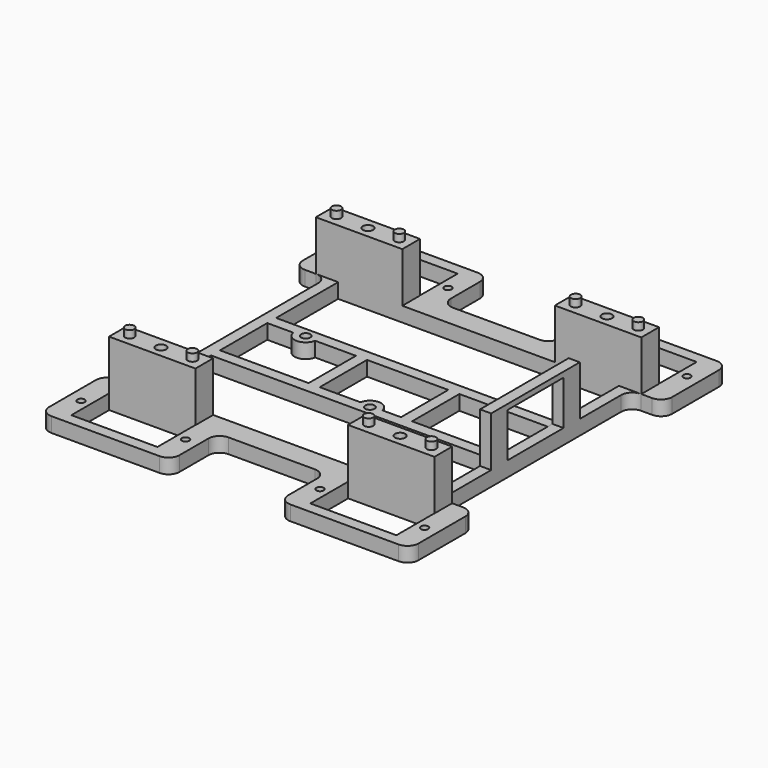
from build123d import *

# Parameters (mm, degrees)
SKETCH_R        = 1
SKETCH_W        = 23.3
SKETCH_H        = 12.8
SKETCH_W_2      = 76
SKETCH_H_2      = 21
SKETCH_W_3      = 24
SKETCH_H_3      = 16
PAD_DEPTH       = 4
SKETCH005_R     = 1.25
POCKET001_DEPTH = 5
SKETCH002_W     = 23.4
SKETCH002_H     = 6
SKETCH002_W_2   = 3
SKETCH002_H_2   = 30
PAD001_DEPTH    = 13.5
SKETCH008_R     = 1.4
POCKET_DEPTH    = 11
SKETCH007_R     = 1.25
PAD002_DEPTH    = 2
SKETCH004_W     = 19
SKETCH004_H     = 12
POCKET002_DEPTH = 5
SKETCH009_R     = 1.25
POCKET003_DEPTH = 11


with BuildPart() as part:
    # Sketch → Pad (new body)
    with BuildSketch(Plane.XY):
        with BuildLine():
            Line((-11.7, 38), (11.7, 38))
            ThreePointArc((11.7, 38), (13.82132, 38.87868), (14.7, 41))
            Line((14.7, 41), (14.7, 50.8))
            ThreePointArc((17.7, 53.8), (15.57868, 52.92132), (14.7, 50.8))
            Line((17.7, 53.8), (47, 53.8))
            ThreePointArc((50, 50.8), (49.12132, 52.92132), (47, 53.8))
            Line((50, 50.8), (50, 35))
            ThreePointArc((47, 32), (49.12132, 32.87868), (50, 35))
            Line((47, 32), (44, 32))
            ThreePointArc((44, 32), (41.87868, 31.12132), (41, 29))
            Line((41, 29), (41, -29))
            ThreePointArc((41, -29), (41.87868, -31.12132), (44, -32))
            Line((44, -32), (47, -32))
            ThreePointArc((50, -35), (49.12132, -32.87868), (47, -32))
            Line((50, -35), (50, -50.8))
            ThreePointArc((47, -53.8), (49.12132, -52.92132), (50, -50.8))
            Line((47, -53.8), (17.7, -53.8))
            ThreePointArc((14.7, -50.8), (15.57868, -52.92132), (17.7, -53.8))
            Line((14.7, -50.8), (14.7, -41))
            ThreePointArc((14.7, -41), (13.82132, -38.87868), (11.7, -38))
            Line((11.7, -38), (-11.7, -38))
            ThreePointArc((-11.7, -38), (-13.82132, -38.87868), (-14.7, -41))
            Line((-14.7, -41), (-14.7, -50.8))
            ThreePointArc((-17.7, -53.8), (-15.57868, -52.92132), (-14.7, -50.8))
            Line((-17.7, -53.8), (-47, -53.8))
            ThreePointArc((-50, -50.8), (-49.12132, -52.92132), (-47, -53.8))
            Line((-50, -35), (-50, -50.8))
            ThreePointArc((-47, -32), (-49.12132, -32.87868), (-50, -35))
            Line((-47, -32), (-44, -32))
            ThreePointArc((-44, -32), (-41.87868, -31.12132), (-41, -29))
            Line((-41, -29), (-41, 29))
            ThreePointArc((-41, 29), (-41.87868, 31.12132), (-44, 32))
            Line((-44, 32), (-47, 32))
            ThreePointArc((-50, 35), (-49.12132, 32.87868), (-47, 32))
            Line((-50, 50.8), (-50, 35))
            ThreePointArc((-47, 53.8), (-49.12132, 52.92132), (-50, 50.8))
            Line((-47, 53.8), (-17.7, 53.8))
            ThreePointArc((-14.7, 50.8), (-15.57868, 52.92132), (-17.7, 53.8))
            Line((-14.7, 50.8), (-14.7, 41))
            ThreePointArc((-14.7, 41), (-13.82132, 38.87868), (-11.7, 38))
        make_face()
        with Locations((-46.5, 44.4)):
            Circle(SKETCH_R, mode=Mode.SUBTRACT)
        with Locations((-18.2, 44.4)):
            Circle(SKETCH_R, mode=Mode.SUBTRACT)
        with Locations((18.2, 44.4)):
            Circle(SKETCH_R, mode=Mode.SUBTRACT)
        with Locations((46.5, 44.4)):
            Circle(SKETCH_R, mode=Mode.SUBTRACT)
        with Locations((-46.5, -44.4)):
            Circle(SKETCH_R, mode=Mode.SUBTRACT)
        with Locations((-18.2, -44.4)):
            Circle(SKETCH_R, mode=Mode.SUBTRACT)
        with Locations((18.2, -44.4)):
            Circle(SKETCH_R, mode=Mode.SUBTRACT)
        with Locations((46.5, -44.4)):
            Circle(SKETCH_R, mode=Mode.SUBTRACT)
        with Locations((-32.35, 44.4)):
            Rectangle(SKETCH_W, SKETCH_H, mode=Mode.SUBTRACT)
        with Locations((32.35, 44.4)):
            Rectangle(SKETCH_W, SKETCH_H, mode=Mode.SUBTRACT)
        with Locations((32.35, -44.4)):
            Rectangle(SKETCH_W, SKETCH_H, mode=Mode.SUBTRACT)
        with Locations((-32.35, -44.4)):
            Rectangle(SKETCH_W, SKETCH_H, mode=Mode.SUBTRACT)
        with Locations((0, 21.5)):
            Rectangle(SKETCH_W_2, SKETCH_H_2, mode=Mode.SUBTRACT)
        with Locations((0, -21.5)):
            Rectangle(SKETCH_W_2, SKETCH_H_2, mode=Mode.SUBTRACT)
        with Locations((26, 0)):
            Rectangle(SKETCH_W_3, SKETCH_H_3, mode=Mode.SUBTRACT)
        with BuildLine():
            Line((-38, 8), (-38, -8))
            Line((-38, -8), (-14, -8))
            Line((-14, -8), (-14, 8))
            Line((-14, 8), (-25.04196, 8))
            ThreePointArc((-30.95804, 8), (-28, 5.5), (-25.04196, 8))
            Line((-30.95804, 8), (-38, 8))
        make_face(mode=Mode.SUBTRACT)
        with BuildLine():
            ThreePointArc((5.95804, -8), (3, -5.5), (0.04196, -8))
            Line((-11, -8), (0.04196, -8))
            Line((-11, 8), (-11, -8))
            Line((11, 8), (-11, 8))
            Line((11, -8), (11, 8))
            Line((5.95804, -8), (11, -8))
        make_face(mode=Mode.SUBTRACT)
    extrude(amount=PAD_DEPTH)

    # Sketch005 → Pocket001 (cut)
    with BuildSketch(Plane.XY.offset(4)):
        with Locations((3, -8.5)):
            Circle(SKETCH005_R)
        with Locations((-28, 8.5)):
            Circle(SKETCH005_R)
    extrude(amount=-POCKET001_DEPTH, mode=Mode.SUBTRACT)

    # Sketch002 (on Face5 of Pocket001) → Pad001 (join)
    with BuildSketch(Plane.XY.offset(4)):
        with Locations((-32.35, 35)):
            Rectangle(SKETCH002_W, SKETCH002_H)
        with Locations((32.35, 35)):
            Rectangle(SKETCH002_W, SKETCH002_H)
        with Locations((-32.35, -35)):
            Rectangle(SKETCH002_W, SKETCH002_H)
        with Locations((32.35, -35)):
            Rectangle(SKETCH002_W, SKETCH002_H)
        with Locations((39.5, 0)):
            Rectangle(SKETCH002_W_2, SKETCH002_H_2)
    extrude(amount=PAD001_DEPTH)

    # Sketch008 → Pocket (cut)
    with BuildSketch(Plane.XY.offset(17.5)):
        with Locations((-32.35, 35)):
            Circle(SKETCH008_R)
        with Locations((32.35, 35)):
            Circle(SKETCH008_R)
        with Locations((-32.35, -35)):
            Circle(SKETCH008_R)
        with Locations((32.35, -35)):
            Circle(SKETCH008_R)
    extrude(amount=-POCKET_DEPTH, mode=Mode.SUBTRACT)

    # Sketch007 (on Face112 of Pocket) → Pad002 (join)
    with BuildSketch(Plane.XY.offset(17.5)):
        with Locations((-40.85, 35)):
            Circle(SKETCH007_R)
        with Locations((-23.85, 35)):
            Circle(SKETCH007_R)
        with Locations((23.85, 35)):
            Circle(SKETCH007_R)
        with Locations((40.85, 35)):
            Circle(SKETCH007_R)
        with Locations((-40.85, -35)):
            Circle(SKETCH007_R)
        with Locations((-23.85, -35)):
            Circle(SKETCH007_R)
        with Locations((23.85, -35)):
            Circle(SKETCH007_R)
        with Locations((40.85, -35)):
            Circle(SKETCH007_R)
    extrude(amount=PAD002_DEPTH)

    # Sketch004 (on Face105 of Pad002) → Pocket002 (cut)
    with BuildSketch(Plane.YZ.offset(41)):
        with Locations((0, 10.07)):
            Rectangle(SKETCH004_W, SKETCH004_H)
    extrude(amount=-POCKET002_DEPTH, mode=Mode.SUBTRACT)

    # Sketch009 (on Face4 of Pocket002) → Pocket003 (cut)
    with BuildSketch(Plane(origin=(0, 0, 0), x_dir=(1, 0, 0), z_dir=(0, 0, -1))):
        with Locations((28, 35)):
            Circle(SKETCH009_R)
        with Locations((-25, 35)):
            Circle(SKETCH009_R)
        with Locations((-25, -35)):
            Circle(SKETCH009_R)
        with Locations((28, -35)):
            Circle(SKETCH009_R)
    extrude(amount=-POCKET003_DEPTH, mode=Mode.SUBTRACT)


solid = part.part
